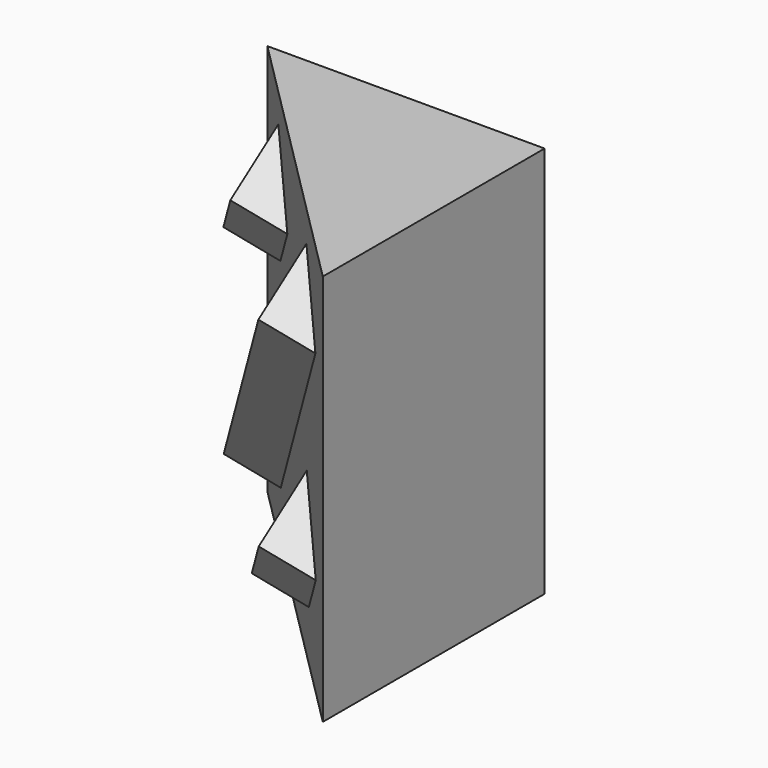
from build123d import *

# Parameters (mm, degrees)
F1_DEPTH = 56.5685424949
F5_DEPTH = 5
F6_DEPTH = 25


with BuildPart() as f1:
    # F0 (on Top) → F1 (new body)
    with BuildSketch(Plane.XY):
        Polygon((20, -20), (20, 20), (-20, 20), align=None)
    extrude(amount=F1_DEPTH)

    # F4 (on face) → F5 (join, symmetric)
    with BuildSketch(Plane(origin=(10, -10, 14.1421356237), x_dir=(0.8660254038, 0.2886751346, -0.4082482905), z_dir=(-0.5, 0.5, -0.7071067812))):
        Polygon((-28.3771324027, -29.5247237874), (-28.3771324027, -40.1313255052), (-20.8771324027, -29.5247237874), align=None)
        Polygon((-4.7168783649, 3.9359283621), (-4.7168783649, -6.6706733557), (2.7831216351, 3.9359283621), align=None)
    extrude(amount=F5_DEPTH, both=True)

    # F4 (on face) → F6 (join, symmetric)
    with BuildSketch(Plane(origin=(10, -10, 14.1421356237), x_dir=(0.8660254038, 0.2886751346, -0.4082482905), z_dir=(-0.5, 0.5, -0.7071067812))):
        Polygon((-16.5470053838, -12.7943977126), (-16.5470053838, -23.4009994304), (-11.5470053838, -16.3299316186), align=None)
        Polygon((-9.0470053838, -12.7943977126), (-16.5470053838, -12.7943977126), (-11.5470053838, -16.3299316186), align=None)
    extrude(amount=F6_DEPTH, both=True)


solid = f1.part
